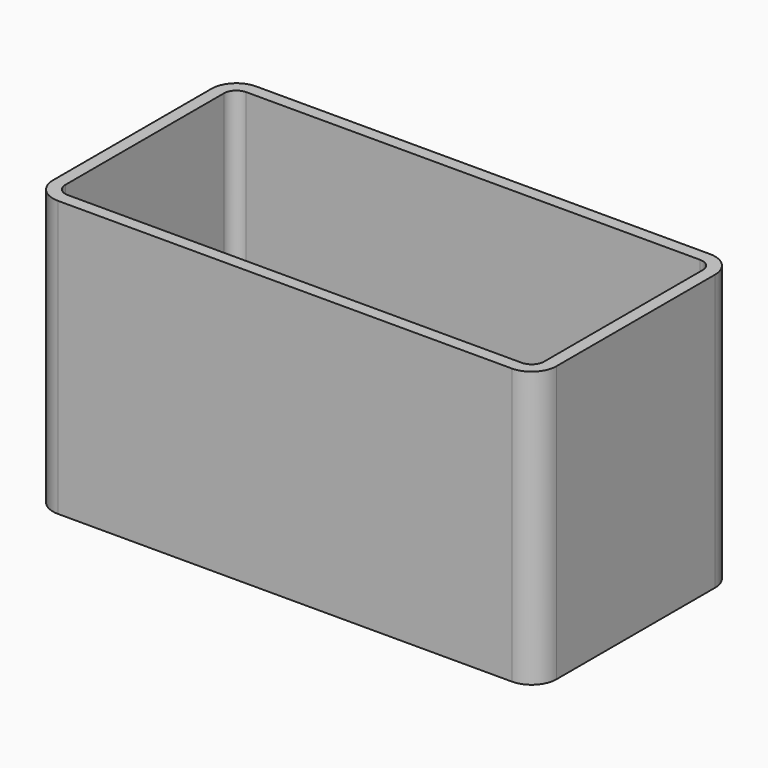
from build123d import *

# Parameters (mm, degrees)
F0_W     = 101.6
F0_H     = 55.626
F1_DEPTH = 50
F2_R     = 5
F3_T     = -2.5


with BuildPart() as f1:
    # F0 (on Front) → F1 (new body)
    with BuildSketch(Plane.XZ):
        Rectangle(F0_W, F0_H)
    extrude(amount=F1_DEPTH)

    # F2
    f2_edges = [f1.edges().sort_by_distance(p)[0] for p in [
        (-50.8, -50, 0),
        (50.8, -50, 0),
        (50.8, 0, 0),
        (-50.8, 0, 0),
    ]]
    fillet(f2_edges, radius=F2_R)

    # F3
    f3_openings = [f1.faces().sort_by_distance(p)[0] for p in [
        (0, -25, 27.813),
        (0, -25, -27.813),
    ]]
    offset(amount=F3_T, openings=f3_openings)


solid = f1.part
